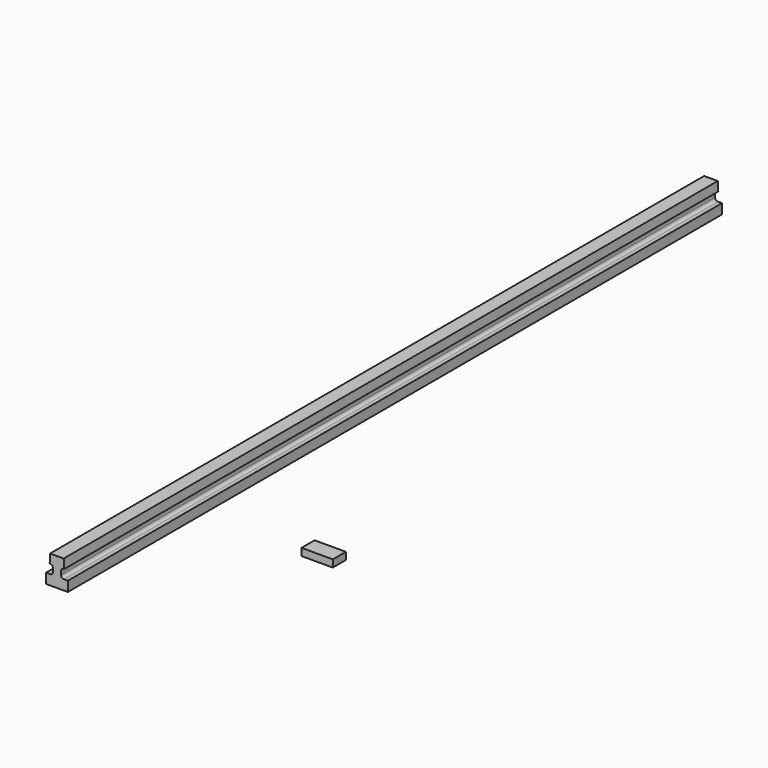
from build123d import *

# Parameters (mm, degrees)
F1_DEPTH = 4500
F2_W     = 172
F2_H     = 90
F3_DEPTH = 40


with BuildPart() as f1:
    # F0 (on Front) → F1 (new body)
    with BuildSketch(Plane.XZ):
        with BuildLine():
            Line((-4.308599, 132.713967), (-79.308599, 132.713967))
            Line((-79.308599, 132.713967), (-81.308599, 82.713967))
            Line((-81.308599, 82.713967), (-78.808599, 82.713967))
            ThreePointArc((-78.808599, 82.713967), (-68.201997, 78.320568), (-63.808599, 67.713967))
            Line((-63.808599, 67.713967), (-63.808599, 47.713967))
            ThreePointArc((-63.808599, 47.713967), (-68.201997, 37.107365), (-78.808599, 32.713967))
            Line((-78.808599, 32.713967), (-101.308599, 32.713967))
            Line((-101.308599, 32.713967), (-101.308599, -22.286033))
            Line((-101.308599, -22.286033), (18.691401, -22.286033))
            Line((18.691401, -22.286033), (18.691401, 32.713967))
            Line((18.691401, 32.713967), (-3.808599, 32.713967))
            ThreePointArc((-3.808599, 32.713967), (-14.415201, 37.107365), (-18.808599, 47.713967))
            Line((-18.808599, 47.713967), (-18.808599, 67.713967))
            ThreePointArc((-18.808599, 67.713967), (-14.415201, 78.320568), (-3.808599, 82.713967))
            Line((-3.808599, 82.713967), (-1.308599, 82.713967))
            Line((-1.308599, 82.713967), (-4.308599, 132.713967))
        make_face()
    extrude(amount=F1_DEPTH)


with BuildPart() as f3:
    # F2 (on Top) → F3 (new body)
    with BuildSketch(Plane.XY):
        with Locations((706.362043, -3599.694805)):
            Rectangle(F2_W, F2_H)
    extrude(amount=F3_DEPTH)


solid = Compound([f1.part, f3.part])
